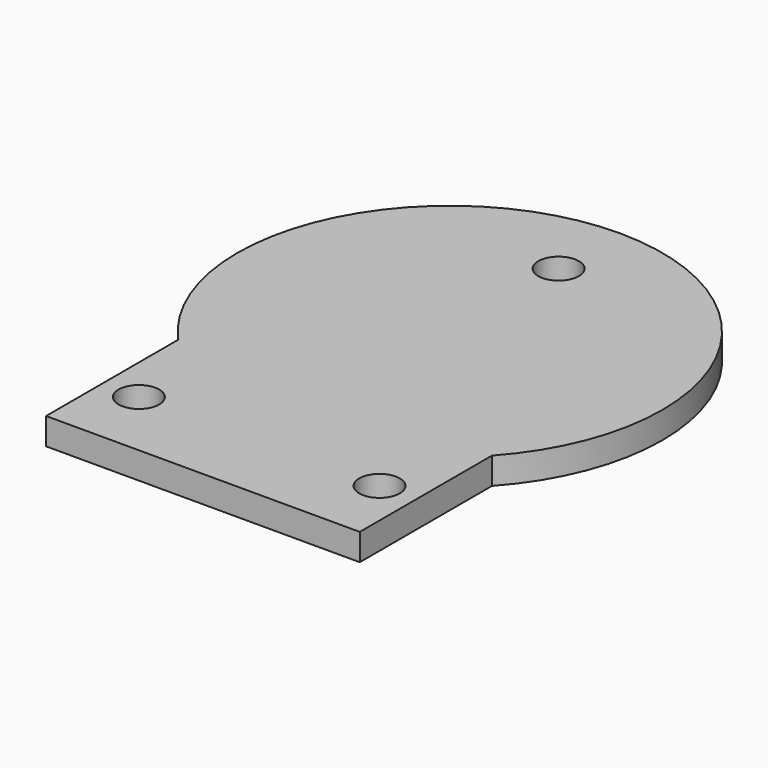
from build123d import *

# Parameters (mm, degrees)
F0_R     = 3.8
F1_DEPTH = 5


with BuildPart() as f1:
    # F0 (on Top) → F1 (new body)
    with BuildSketch(Plane.XY):
        with BuildLine():
            Line((29.335444, -57.730773), (29.335444, -26.82339))
            ThreePointArc((29.335444, -26.82339), (0, 39.75), (-29.335444, -26.82339))
            Line((-29.335444, -26.82339), (-29.335444, -57.730773))
            Line((-29.335444, -57.730773), (29.335444, -57.730773))
        make_face()
        with Locations((-22.5, -44.572785)):
            Circle(F0_R, mode=Mode.SUBTRACT)
        with Locations((22.5, -44.572785)):
            Circle(F0_R, mode=Mode.SUBTRACT)
        with Locations((0, 25.427215)):
            Circle(F0_R, mode=Mode.SUBTRACT)
    extrude(amount=F1_DEPTH)


solid = f1.part
